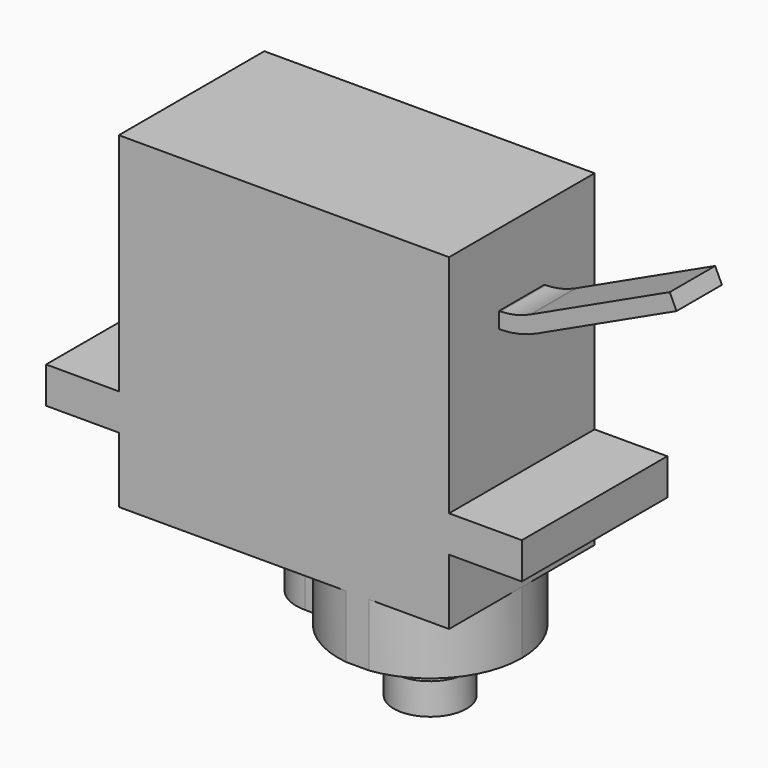
from build123d import *

# Parameters (mm, degrees)
F0_W       = 22.7
F0_H       = 12.5
F1_DEPTH   = 22.5
F2_W       = 12.5
F2_H       = 2.5
F3_DEPTH   = 5
F4_W       = 12.5
F4_H       = 2.5
F5_DEPTH   = 5
F7_DEPTH   = 4.3
F8_R       = 2.15
F9_DEPTH   = 2.15
F10_R      = 2.5
F11_DEPTH  = 2.15
F12_W      = 3.9
F12_H      = 1.1
F13_DEPTH  = 0.1
F13_FACE_W = 3.9
F13_FACE_H = 1.1
F14_ANGLE  = 25
F15_W      = 3.9
F15_H      = 1.1
F16_DEPTH  = 10.6


with BuildPart() as f1:
    # F0 (on Top) → F1 (new body)
    with BuildSketch(Plane.XY):
        with Locations((6.858115, 5.973938)):
            Rectangle(F0_W, F0_H)
    extrude(amount=F1_DEPTH)

    # F2 (on face) → F3 (join)
    with BuildSketch(Plane(origin=(-4.491885, 0, 0), x_dir=(0, -1, 0), z_dir=(-1, 0, 0))):
        with Locations((-5.973938, 5.75)):
            Rectangle(F2_W, F2_H)
    extrude(amount=F3_DEPTH)

    # F4 (on face) → F5 (join)
    with BuildSketch(Plane.YZ.offset(18.208115)):
        with Locations((5.973938, 5.75)):
            Rectangle(F4_W, F4_H)
    extrude(amount=F5_DEPTH)

    # F6 (on face) → F7 (join)
    with BuildSketch(Plane(origin=(0, 0, 0), x_dir=(1, 0, 0), z_dir=(0, 0, -1))):
        with BuildLine():
            Line((5.608115, -8.873938), (6.315263, -8.873938))
            ThreePointArc((6.315263, -8.873938), (8.302885, -11.140399), (11.115966, -12.223938))
            Line((11.115966, -12.223938), (12.700264, -12.223938))
            ThreePointArc((12.700264, -12.223938), (16.634664, -10.139239), (18.208115, -5.973938))
            ThreePointArc((18.208115, -5.973938), (16.634664, -1.808637), (12.700264, 0.276062))
            Line((12.700264, 0.276062), (11.115966, 0.276062))
            ThreePointArc((11.115966, 0.276062), (8.302885, -0.807478), (6.315263, -3.073938))
            Line((6.315263, -3.073938), (5.608115, -3.073938))
            ThreePointArc((5.608115, -3.073938), (2.708115, -5.973938), (5.608115, -8.873938))
        make_face()
    extrude(amount=F7_DEPTH)

    # F8 (on face) → F9 (join)
    with BuildSketch(Plane(origin=(0, 0, -4.3), x_dir=(1, 0, 0), z_dir=(0, 0, -1))):
        with Locations((11.908115, -5.973938)):
            Circle(F8_R)
    extrude(amount=F9_DEPTH)

    # F10 (on face) → F11 (join)
    with BuildSketch(Plane(origin=(0, 0, -6.45), x_dir=(1, 0, 0), z_dir=(0, 0, -1))):
        with Locations((11.908115, -5.973938)):
            Circle(F10_R)
    extrude(amount=F11_DEPTH)

    # F12 (on face) → F13 (join)
    with BuildSketch(Plane.YZ.offset(18.208115)):
        with Locations((5.973938, 16.95)):
            Rectangle(F12_W, F12_H)
    extrude(amount=F13_DEPTH)

    # F13_face (on face) → F14 (revolve)
    with BuildSketch(Plane(origin=(18.308115, 5.973938, 16.95), x_dir=(0, 1, 0), z_dir=(1, 0, 0))):
        Rectangle(F13_FACE_W, F13_FACE_H)
    revolve(axis=Axis((18.208115, 5.973938, 22.5), (0, -1, 0)), revolution_arc=F14_ANGLE)

    # F15 (on face) → F16 (join)
    with BuildSketch(Plane(origin=(23.583096, 0, 10.996978), x_dir=(0, 1, 0), z_dir=(0.906308, 0, 0.422618))):
        with Locations((5.973938, 7.146843)):
            Rectangle(F15_W, F15_H)
    extrude(amount=F16_DEPTH)


solid = f1.part
